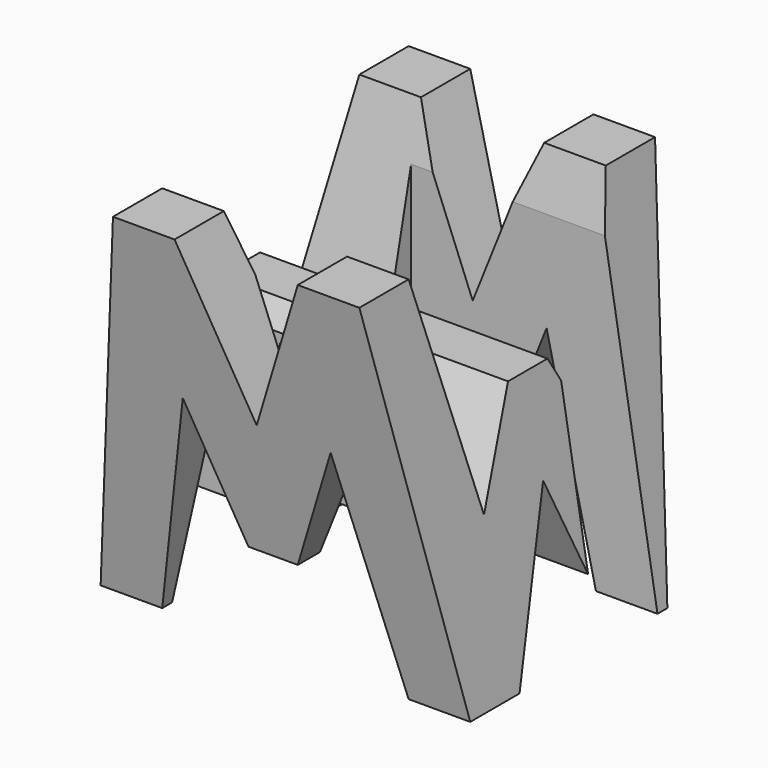
from build123d import *

# Parameters (mm, degrees)
F0_W     = 38.1
F0_H     = 38.1
F1_DEPTH = 38.1
F5_DEPTH = 38.1
F7_DEPTH = 38.1
F8_W     = 25.4
F8_H     = 7.62
F9_DEPTH = 38.1


with BuildPart() as f1:
    # F0 (on Front) → F1 (new body)
    with BuildSketch(Plane.XZ):
        with Locations((19.05, 19.05)):
            Rectangle(F0_W, F0_H)
    extrude(amount=F1_DEPTH)

    # F4 (on face) → F5 (cut)
    with BuildSketch(Plane.YZ.offset(38.1)):
        Polygon((-6.35, 38.1), (-31.75, 38.1), (-26.67, 15.875), (-21.59, 25.4), (-16.51, 25.4), (-11.43, 15.875), align=None)
        Polygon((-31.75, 0), (-38.1, 38.1), (-38.1, 0), align=None)
        Polygon((-19.05, 15.875), (-25.4, 0), (-12.7, 0), align=None)
        Polygon((0, 0), (0, 38.1), (-6.35, 0), align=None)
    extrude(amount=-F5_DEPTH, mode=Mode.SUBTRACT)

    # F6 (on offset) → F7 (cut)
    with BuildSketch(Plane.XZ.offset(38.1)):
        Polygon((25.4, 38.1), (12.7, 38.1), (19.05, 22.225), align=None)
        Polygon((6.35, 38.1), (0, 38.1), (0, 0), align=None)
        Polygon((11.43, 22.225), (6.35, 0), (31.75, 0), (26.67, 22.225), (21.59, 9.525), (16.51, 9.525), align=None)
        Polygon((31.75, 38.1), (38.1, 0), (38.1, 38.1), align=None)
    extrude(amount=-F7_DEPTH, mode=Mode.SUBTRACT)

    # F8 (on offset) → F9 (cut)
    with BuildSketch(Plane.XY.offset(38.1)):
        with Locations((12.7, -26.67)):
            Rectangle(F8_W, F8_H)
        with Locations((25.4, -11.43)):
            Rectangle(F8_W, F8_H)
    extrude(amount=-F9_DEPTH, mode=Mode.SUBTRACT)


solid = f1.part
